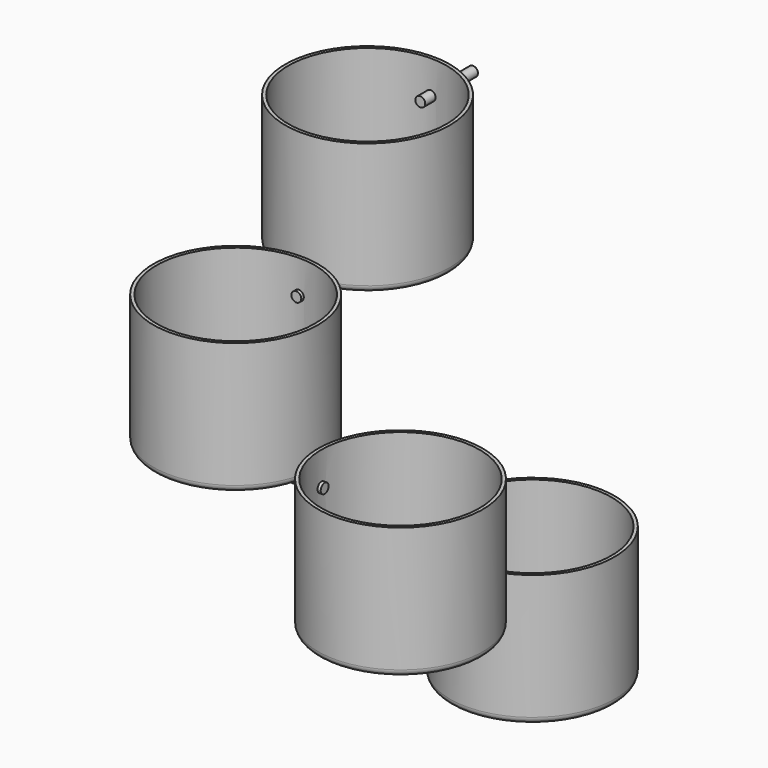
from build123d import *

# Parameters (mm, degrees)
F0_R      = 250
F1_DEPTH  = 400
F2_R      = 20
F3_T      = -10
F4_R      = 15
F5_DEPTH  = 250.001
F6_R      = 15
F7_DEPTH  = 10.001
F8_START  = -200
F8_DEPTH  = 200
F9_DEPTH  = 20
F9_FACE_R = 15
F14_ANGLE = 90
F16_ANGLE = 90


with BuildPart() as f1:
    # F0 (on Top) → F1 (new body)
    with BuildSketch(Plane.XY):
        Circle(F0_R)
    extrude(amount=F1_DEPTH)

    # F2
    f2_edges = [f1.edges().sort_by_distance(p)[0] for p in [
        (-250, 0, 0),
    ]]
    fillet(f2_edges, radius=F2_R)

    # F3
    f3_openings = [f1.faces().sort_by_distance(p)[0] for p in [
        (0, 0, 400),
    ]]
    offset(amount=F3_T, openings=f3_openings)

    # F4 (on Front) → F5 (cut, through all)
    with BuildSketch(Plane.XZ):
        with Locations((0, 300)):
            Circle(F4_R)
    extrude(amount=-F5_DEPTH, mode=Mode.SUBTRACT)

    # F6 (on face) → F7 (cut, through all)
    with BuildSketch(Plane.XY.offset(10)):
        Circle(F6_R)
    extrude(amount=-F7_DEPTH, mode=Mode.SUBTRACT)


with BuildPart() as f8:
    # F4 (on Front) → F8 (new body)
    with BuildSketch(Plane.XZ.offset(F8_START)):
        with Locations((0, 300)):
            Circle(F4_R)
    extrude(amount=-F8_DEPTH)


with BuildPart() as f9:
    # F6 (on face) → F9 (new body)
    with BuildSketch(Plane.XY.offset(10)):
        Circle(F6_R)
    extrude(amount=-F9_DEPTH)

    # F11: sweep along a path in F10
    with BuildLine(Plane.YZ) as f11_path:
        ThreePointArc((0, -10), (-5.8578643763, -24.1421356237), (-20, -30))
        Line((-20, -30), (-270, -30))
    # F9_face (on face) → F11 (sweep)
    with BuildSketch(Plane(origin=(0, 0, -10), x_dir=(1, 0, 0), z_dir=(0, 0, -1))):
        Circle(F9_FACE_R)
    sweep(path=f11_path.line)


with BuildPart() as f12_1:
    # F12: copy of F1
    add(f1.part.moved(Location((0, -500, -330))))


with BuildPart() as f12_2:
    # F12: copy of F9
    add(f9.part.moved(Location((0, -500, -330))))


with BuildPart() as f13_1:
    # F13: copy of F12_1
    add(f12_1.part.moved(Location((0, -500, -330))))


with BuildPart() as f13_1_1:
    # F14: moved
    add(f13_1.part.rotate(Axis((0, -500, 70), (0, 0, 1)), F14_ANGLE))


with BuildPart() as f12_2_1:
    # F14: moved
    add(f12_2.part.rotate(Axis((0, -500, 70), (0, 0, 1)), F14_ANGLE))


with BuildPart() as f15_1:
    # F15: copy of F12_2
    add(f12_2_1.part.moved(Location((500, 0, -330))))


with BuildPart() as f15_2:
    # F15: copy of F13_1
    add(f13_1_1.part.moved(Location((500, 0, -330))))


with BuildPart() as f15_2_1:
    # F16: moved
    add(f15_2.part.rotate(Axis((500, -500, -260), (0, 0, 1)), F16_ANGLE))


with BuildPart() as f15_1_1:
    # F16: moved
    add(f15_1.part.rotate(Axis((500, -500, -260), (0, 0, 1)), F16_ANGLE))


solid = Compound([f1.part, f8.part, f9.part, f12_1.part, f13_1_1.part, f12_2_1.part, f15_2_1.part, f15_1_1.part])
